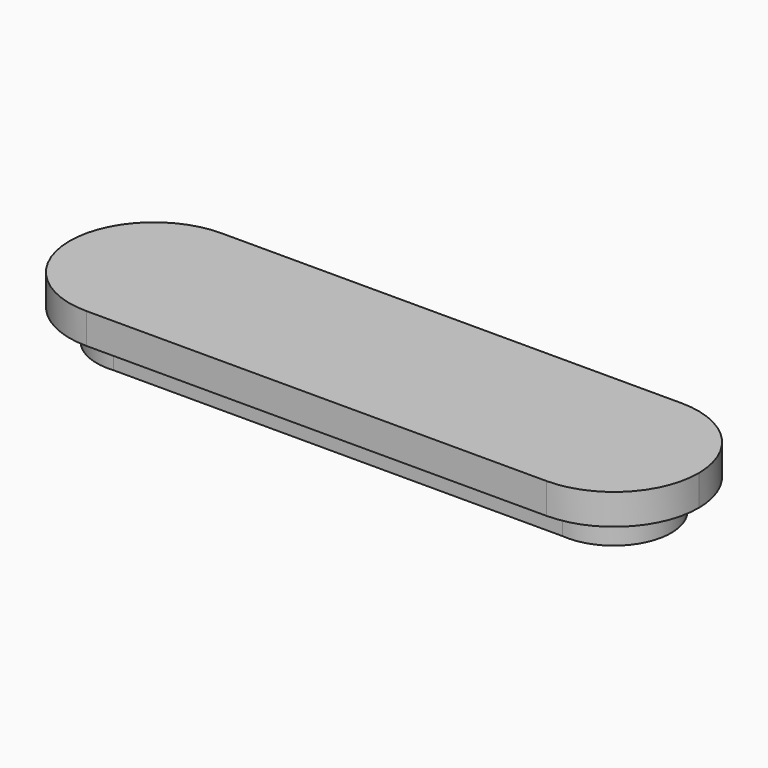
from build123d import *

# Parameters (mm, degrees)
F1_DEPTH = 2
F3_DEPTH = 2


with BuildPart() as f1:
    # F0 (on Top) → F1 (new body)
    with BuildSketch(Plane.XY):
        with BuildLine():
            ThreePointArc((19.640177, 0.03416), (18.008268, 3.884303), (14.140506, 5.474007))
            Line((14.140506, 5.474007), (-15.859494, 5.474007))
            ThreePointArc((-15.859494, 5.474007), (-19.748581, 3.863094), (-21.359494, -0.025993))
            ThreePointArc((-21.359494, -0.025993), (-19.748581, -3.915081), (-15.859494, -5.525993))
            Line((-15.859494, -5.525993), (14.140506, -5.525993))
            ThreePointArc((14.140506, -5.525993), (18.050803, -3.893755), (19.640177, 0.03416))
        make_face()
    extrude(amount=F1_DEPTH)

    # F2 (on face) → F3 (join)
    with BuildSketch(Plane(origin=(0, 0, 0), x_dir=(1, 0, 0), z_dir=(0, 0, -1))):
        with BuildLine():
            Line((13.778, 3.760071), (-15.496988, 3.760071))
            ThreePointArc((-15.496988, 3.760071), (-19.592193, 0.025993), (-15.496988, -3.708084))
            Line((-15.496988, -3.708084), (13.778, -3.708084))
            ThreePointArc((13.778, -3.708084), (17.873205, 0.025993), (13.778, 3.760071))
        make_face()
    extrude(amount=F3_DEPTH)


solid = f1.part
